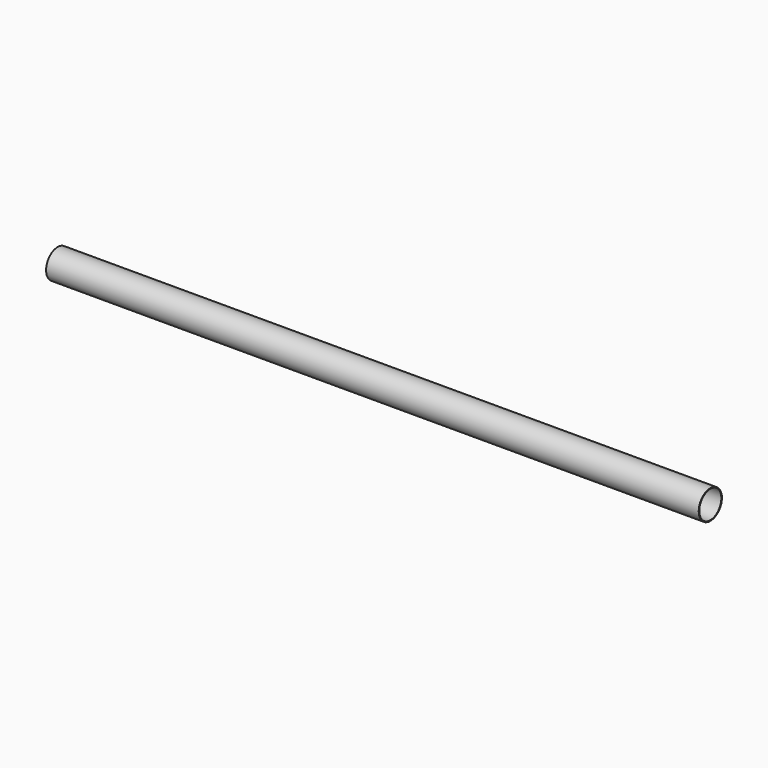
from build123d import *

# Parameters (mm, degrees)
CYLINDER146_R     = 1.9
CYLINDER146_DEPTH = 100
CYLINDER145_R     = 2
CYLINDER145_DEPTH = 90


with BuildPart() as cylinder003:
    # Cylinder146 → Cylinder146 (new body)
    with BuildSketch(Plane(origin=(-2.5, 0, 1), x_dir=(0, 0, -1), z_dir=(1, 0, 0))):
        Circle(CYLINDER146_R)
    extrude(amount=CYLINDER146_DEPTH)


with BuildPart() as cut003:
    # Cylinder145 → Cylinder145 (new body)
    with BuildSketch(Plane(origin=(-2.5, 0, 1), x_dir=(0, 0, -1), z_dir=(1, 0, 0))):
        Circle(CYLINDER145_R)
    extrude(amount=CYLINDER145_DEPTH)

    # Cut003: cut Cylinder003
    add(cylinder003.part, mode=Mode.SUBTRACT)


with BuildPart() as cut003_1:
    # Cut003 placement: moved
    add(cut003.part.moved(Location((-43, 0, 0))))


solid = cut003_1.part
